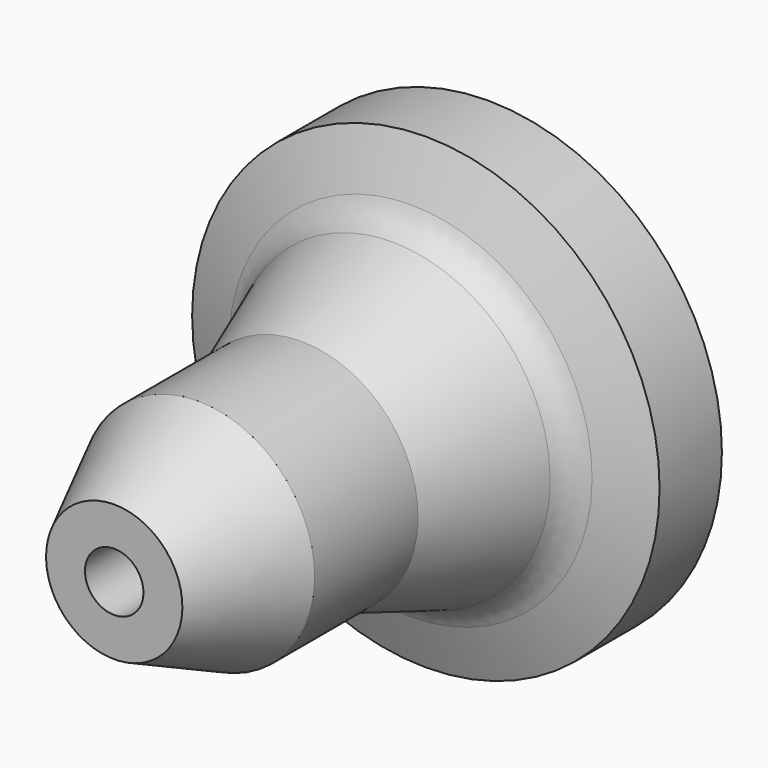
from build123d import *

# Parameters (mm, degrees)
F2_R = 10


with BuildPart() as f1:
    # F0 (on Right) → F1 (revolve)
    with BuildSketch(Plane.YZ):
        Polygon((0, 17.5), (0, 7.5), (120, 7.5), (120, 60), (100, 60), (93.521651, 42.200883), (60, 30), (26.806337, 30), align=None)
    revolve(axis=Axis((0, 51.72596, 0), (0, 1, 0)))

    # F2
    f2_edges = [f1.edges().sort_by_distance(p)[0] for p in [
        (0, 93.521651, -42.200883),
    ]]
    fillet(f2_edges, radius=F2_R)


solid = f1.part
